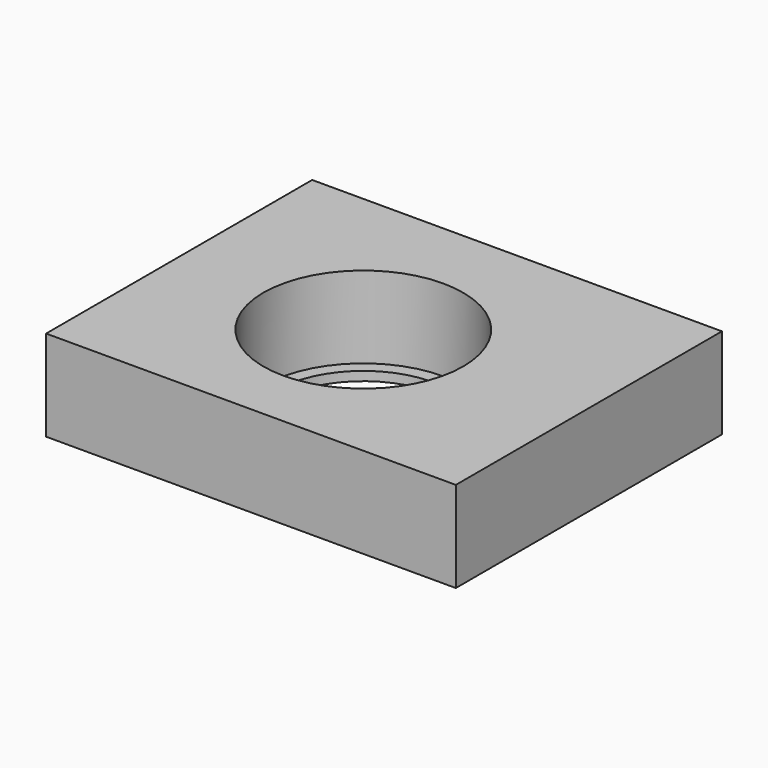
from build123d import *

# Parameters (mm, degrees)
F0_R     = 11
F0_R_2   = 9.6
F1_DEPTH = 1
F0_W     = 45.116566
F0_H     = 36.624037
F2_DEPTH = 10


with BuildPart() as f1:
    # F0 (on Top) → F1 (new body)
    with BuildSketch(Plane.XY):
        Circle(F0_R)
        Circle(F0_R_2, mode=Mode.SUBTRACT)
    extrude(amount=F1_DEPTH)

    # F0 (on Top) → F2 (join)
    with BuildSketch(Plane.XY):
        with Locations((1.723107, 0.697766)):
            Rectangle(F0_W, F0_H)
        Circle(F0_R, mode=Mode.SUBTRACT)
    extrude(amount=F2_DEPTH)


solid = f1.part
